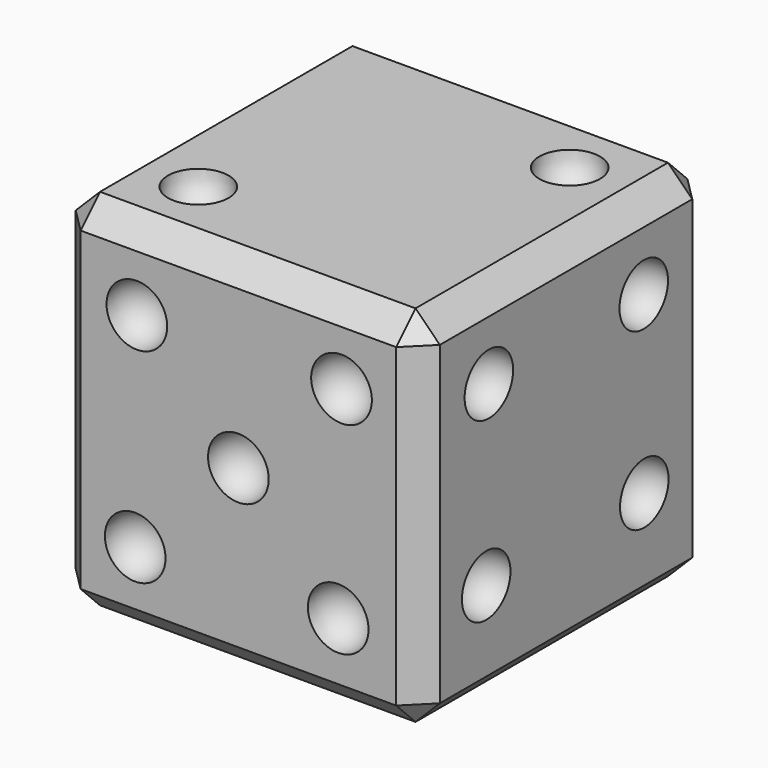
from build123d import *

# Parameters (mm, degrees)
F0_W     = 76.2
F0_H     = 76.2000074155
F1_DEPTH = 76.2
F20_SIZE = 5.08


with BuildPart() as f1:
    # F0 (on Top) → F1 (new body)
    with BuildSketch(Plane.XY):
        with Locations((-38.1, 38.1000037078)):
            Rectangle(F0_W, F0_H)
    extrude(amount=F1_DEPTH)

    # F2 (on face) → F3 (revolve, cut)
    with BuildSketch(Plane(origin=(0, 76.2000074155, 0), x_dir=(-1, 0, 0), z_dir=(0, 1, 0))):
        with BuildLine():
            Line((38.1, 44.45), (38.1, 31.75))
            ThreePointArc((38.1, 31.75), (44.45, 38.1), (38.1, 44.45))
        make_face()
    revolve(axis=Axis((-38.1, 76.2000074155, 38.1), (0, 0, 1)), mode=Mode.SUBTRACT)

    # F4 (on face) → F5 (revolve, cut)
    with BuildSketch(Plane(origin=(-76.2, 0, 0), x_dir=(0, -1, 0), z_dir=(-1, 0, 0))):
        with BuildLine():
            ThreePointArc((-42.5901319868, 33.6098721579), (-33.6098758657, 33.609871721), (-33.6098754287, 42.5901278421))
            Line((-33.6098754287, 42.5901278421), (-42.5901319868, 33.6098721579))
        make_face()
        with BuildLine():
            ThreePointArc((-20.3651319868, 55.8348699951), (-11.3848758657, 55.8348695581), (-11.3848754287, 64.8151256792))
            Line((-11.3848754287, 64.8151256792), (-20.3651319868, 55.8348699951))
        make_face()
        with BuildLine():
            Line((-55.8348754287, 20.3651300049), (-64.8151319868, 11.3848743208))
            ThreePointArc((-64.8151319868, 11.3848743208), (-55.8348758657, 11.3848738838), (-55.8348754287, 20.3651300049))
        make_face()
    revolve(axis=Axis((-76.2, 38.1000037078, 38.1), (0, 0.7071068156, -0.7071067468)), mode=Mode.SUBTRACT)

    # F6 (on face) → F7 (revolve, cut)
    with BuildSketch(Plane.XY.offset(76.2)):
        with BuildLine():
            ThreePointArc((-55.1998721579, 21.0001298857), (-64.180128279, 21.0001294487), (-64.1801278421, 12.0198733277))
            Line((-64.1801278421, 12.0198733277), (-55.1998721579, 21.0001298857))
        make_face()
        with BuildLine():
            Line((-21.0001278421, 55.1998775298), (-12.0198721579, 64.1801340878))
            ThreePointArc((-12.0198721579, 64.1801340878), (-21.000128279, 64.1801336509), (-21.0001278421, 55.1998775298))
        make_face()
    revolve(axis=Axis((-38.1, 38.1000037078, 76.2), (0.7071067468, 0.7071068156, 0)), mode=Mode.SUBTRACT)

    # F8 (on face) → F9 (revolve, cut)
    with BuildSketch(Plane.XZ):
        with BuildLine():
            Line((-38.1, 38.1), (-33.6098719395, 42.5901280605))
            ThreePointArc((-33.6098719395, 42.5901280605), (-38.1, 44.45), (-42.5901280605, 42.5901280605))
            Line((-42.5901280605, 42.5901280605), (-38.1, 38.1))
        make_face()
        with BuildLine():
            Line((-42.5901280605, 33.6098719395), (-38.1, 38.1))
            Line((-38.1, 38.1), (-42.5901280605, 42.5901280605))
            ThreePointArc((-42.5901280605, 42.5901280605), (-44.45, 38.1), (-42.5901280605, 33.6098719395))
        make_face()
        with BuildLine():
            Line((-55.1998719395, 21.0001280605), (-64.1801280605, 12.0198719395))
            ThreePointArc((-64.1801280605, 12.0198719395), (-55.1998719395, 12.0198719395), (-55.1998719395, 21.0001280605))
        make_face()
        with BuildLine():
            Line((-21.0001280605, 55.1998719395), (-12.0198719395, 64.1801280605))
            ThreePointArc((-12.0198719395, 64.1801280605), (-21.0001280605, 64.1801280605), (-21.0001280605, 55.1998719395))
        make_face()
    revolve(axis=Axis((-38.1, 0, 38.1), (-0.7071067812, 0, -0.7071067812)), mode=Mode.SUBTRACT)

    # F10 (on face) → F11 (revolve, cut)
    with BuildSketch(Plane.XZ):
        with BuildLine():
            ThreePointArc((-54.855189944, 54.855189944), (-54.855189944, 63.835446065), (-63.835446065, 63.835446065))
            Line((-63.835446065, 63.835446065), (-54.855189944, 54.855189944))
        make_face()
        with BuildLine():
            Line((-21.6898902261, 21.6898902261), (-12.709634105, 12.709634105))
            ThreePointArc((-12.709634105, 12.709634105), (-12.709634105, 21.6898902261), (-21.6898902261, 21.6898902261))
        make_face()
    revolve(axis=Axis((-38.1, 0, 38.1), (0.7071067812, 0, -0.7071067812)), mode=Mode.SUBTRACT)

    # F12 (on face) → F13 (revolve, cut)
    with BuildSketch(Plane(origin=(0, 0, 0), x_dir=(1, 0, 0), z_dir=(0, 0, -1))):
        with BuildLine():
            Line((-21.8716809362, -21.4069280773), (-9.1716809362, -21.4069280773))
            ThreePointArc((-9.1716809362, -21.4069280773), (-15.5216809362, -15.0569280773), (-21.8716809362, -21.4069280773))
        make_face()
        with BuildLine():
            Line((-44.45, -21.4069280773), (-31.75, -21.4069280773))
            ThreePointArc((-31.75, -21.4069280773), (-38.1, -15.0569280773), (-44.45, -21.4069280773))
        make_face()
        with BuildLine():
            ThreePointArc((-55.6181552052, -21.4069280773), (-61.9681552052, -15.0569280773), (-68.3181552052, -21.4069280773))
            Line((-68.3181552052, -21.4069280773), (-55.6181552052, -21.4069280773))
        make_face()
    revolve(axis=Axis((-38.1, 21.4069280773, 0), (-1, 0, 0)), mode=Mode.SUBTRACT)

    # F14 (on face) → F15 (revolve, cut)
    with BuildSketch(Plane(origin=(0, 0, 0), x_dir=(1, 0, 0), z_dir=(0, 0, -1))):
        with BuildLine():
            ThreePointArc((-22.1475610346, -53.7681765854), (-15.7975610346, -60.1181765854), (-9.4475610346, -53.7681765854))
            Line((-9.4475610346, -53.7681765854), (-22.1475610346, -53.7681765854))
        make_face()
        with BuildLine():
            ThreePointArc((-44.45, -53.7681765854), (-38.1, -60.1181765854), (-31.75, -53.7681765854))
            Line((-31.75, -53.7681765854), (-44.45, -53.7681765854))
        make_face()
        with BuildLine():
            Line((-56.3109176397, -53.7681765854), (-69.0109176397, -53.7681765854))
            ThreePointArc((-69.0109176397, -53.7681765854), (-62.6609176397, -60.1181765854), (-56.3109176397, -53.7681765854))
        make_face()
    revolve(axis=Axis((-38.1, 53.7681765854, 0), (-1, 0, 0)), mode=Mode.SUBTRACT)

    # F16 (on face) → F17 (revolve, cut)
    with BuildSketch(Plane.YZ):
        with BuildLine():
            Line((11.5648819298, 58.7085857987), (24.2648819298, 58.7085857987))
            ThreePointArc((24.2648819298, 58.7085857987), (17.9148819298, 65.0585857987), (11.5648819298, 58.7085857987))
        make_face()
        with BuildLine():
            Line((52.0762795746, 58.7085857987), (64.7762795746, 58.7085857987))
            ThreePointArc((64.7762795746, 58.7085857987), (58.4262795746, 65.0585857987), (52.0762795746, 58.7085857987))
        make_face()
    revolve(axis=Axis((0, 38.1000037078, 58.7085857987), (0, -1, 0)), mode=Mode.SUBTRACT)

    # F18 (on face) → F19 (revolve, cut)
    with BuildSketch(Plane.YZ):
        with BuildLine():
            ThreePointArc((52.2211778409, 22.0338748657), (58.6013328924, 15.7141738033), (64.9210339548, 22.0943288549))
            Line((64.9210339548, 22.0943288549), (52.2211778409, 22.0338748657))
        make_face()
        with BuildLine():
            ThreePointArc((10.8591808619, 21.8369830509), (17.2393359135, 15.5172819885), (23.5590369759, 21.8974370401))
            Line((23.5590369759, 21.8974370401), (10.8591808619, 21.8369830509))
        make_face()
    revolve(axis=Axis((0, 38.1000037078, 21.9666551035), (0, -0.9999886704, -0.0047601566)), mode=Mode.SUBTRACT)

    # F20
    f20_edges = [f1.edges().sort_by_distance(p)[0] for p in [
        (-76.2, 76.200007, 38.1),
        (-76.2, 38.100004, 76.2),
        (-38.1, 0, 76.2),
        (-76.2, 0, 38.1),
        (-38.1, 76.200007, 76.2),
        (0, 76.200007, 38.1),
        (0, 38.100004, 76.2),
        (0, 38.100004, 0),
        (0, 0, 38.1),
        (-38.1, 0, 0),
        (-38.1, 76.200007, 0),
        (-76.2, 38.100004, 0),
    ]]
    chamfer(f20_edges, length=F20_SIZE)


solid = f1.part
